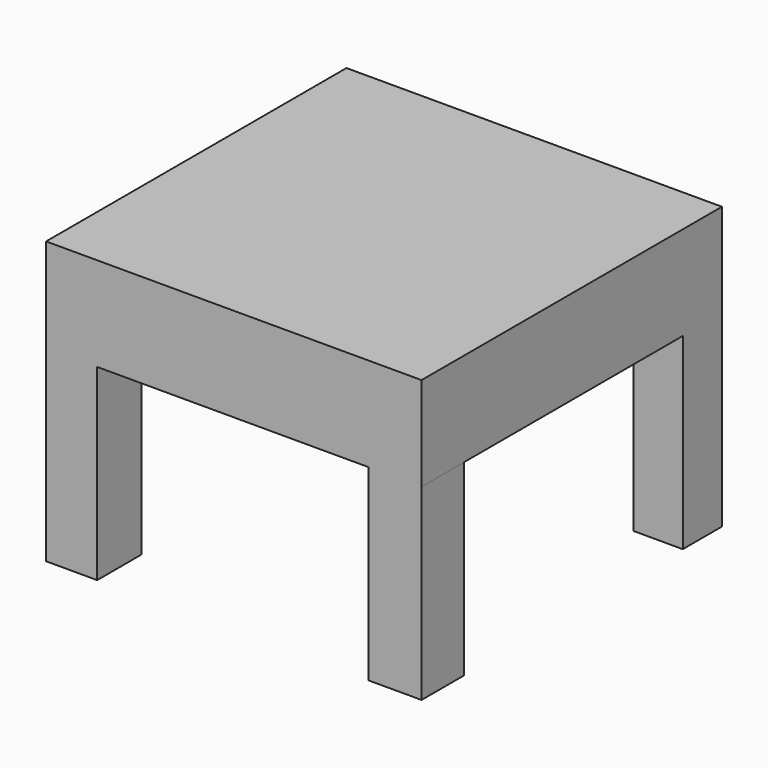
from build123d import *

# Parameters (mm, degrees)
F0_W     = 20
F0_H     = 20
F1_DEPTH = 5
F2_W     = 2.721561
F2_H     = 2.947924
F2_W_2   = 2.833921
F2_H_2   = 2.843244
F2_W_3   = 2.62458
F2_H_3   = 2.606365
F2_W_4   = 3.140243
F2_H_4   = 2.711044
F3_DEPTH = 10


with BuildPart() as f1:
    # F0 (on Top) → F1 (new body)
    with BuildSketch(Plane.XY):
        Rectangle(F0_W, F0_H)
    extrude(amount=F1_DEPTH)

    # F2 (on face) → F3 (join)
    with BuildSketch(Plane(origin=(0, 0, 0), x_dir=(1, 0, 0), z_dir=(0, 0, -1))):
        with Locations((-8.639219, 8.526038)):
            Rectangle(F2_W, F2_H)
        with Locations((8.583039, 8.578378)):
            Rectangle(F2_W_2, F2_H_2)
        with Locations((8.68771, -8.696817)):
            Rectangle(F2_W_3, F2_H_3)
        with Locations((-8.429879, -8.644478)):
            Rectangle(F2_W_4, F2_H_4)
    extrude(amount=F3_DEPTH)


solid = f1.part
